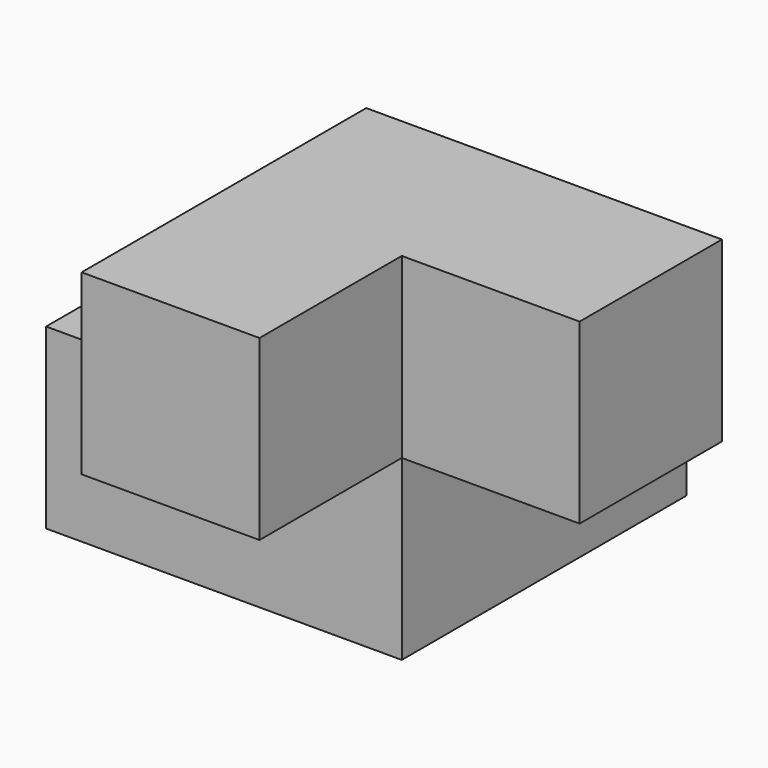
from build123d import *

# Parameters (mm, degrees)
F1_DEPTH = 19.05
F3_DEPTH = 19.05


with BuildPart() as f1:
    # F0 (on Top) → F1 (new body)
    with BuildSketch(Plane.XY):
        Polygon((0, 19.05), (0, 0), (-19.05, 0), (-19.05, -19.05), (19.05, -19.05), (19.05, 19.05), align=None)
    extrude(amount=F1_DEPTH)

    # F2 (on face) → F3 (join)
    with BuildSketch(Plane.XY.offset(19.05)):
        Polygon((38.1, 0), (0, 0), (0, -19.05), (0, -38.1), (19.05, -38.1), (19.05, -19.05), (38.1, -19.05), align=None)
    extrude(amount=F3_DEPTH)


solid = f1.part
